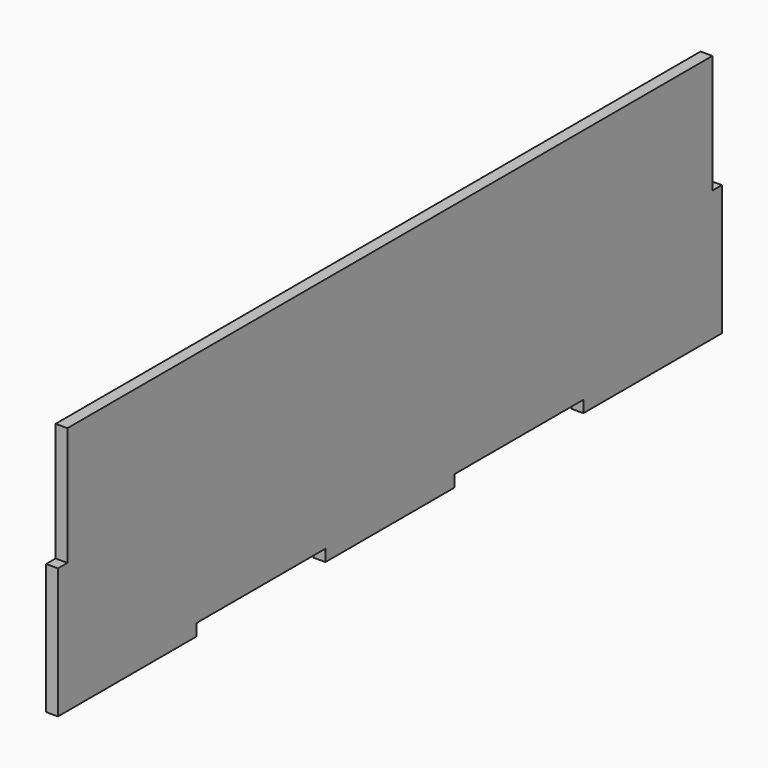
from build123d import *

# Parameters (mm, degrees)
F0_W     = 73
F0_H     = 5
F0_W_2   = 5
F0_H_2   = 100
F1_DEPTH = 5


with BuildPart() as f1:
    # F0 (on Right) → F1 (new body)
    with BuildSketch(Plane.YZ):
        with Locations((138.5, -52.5)):
            Rectangle(F0_W, F0_H)
        Polygon((102, -50), (175, -50), (175, 0), (170, 0), (170, 50), (5, 50), (5, -50), (34, -50), align=None)
        Polygon((34, -55), (34, -50), (5, -50), (0, -50), (0, -55), align=None)
        with Locations((2.5, 0)):
            Rectangle(F0_W_2, F0_H_2)
        Polygon((0, -55), (0, -50), (-5, -50), (-34, -50), (-34, -55), align=None)
        with Locations((-2.5, 0)):
            Rectangle(F0_W_2, F0_H_2)
        Polygon((-34, -50), (-5, -50), (-5, 50), (-170, 50), (-170, 0), (-175, 0), (-175, -50), (-102, -50), align=None)
        with Locations((-138.5, -52.5)):
            Rectangle(F0_W, F0_H)
    extrude(amount=F1_DEPTH)


solid = f1.part
